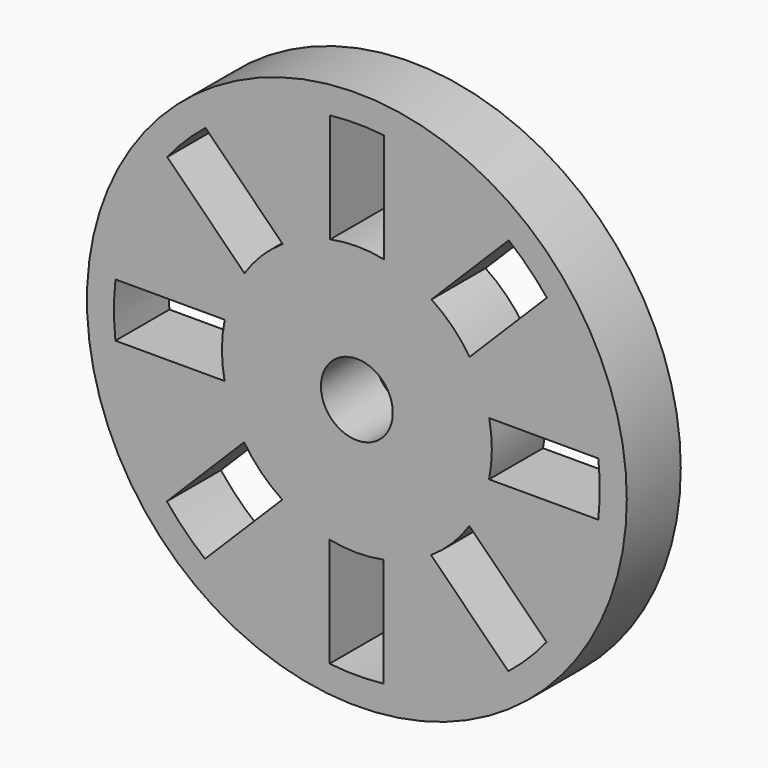
from build123d import *

# Parameters (mm, degrees)
F0_R     = 25.4
F1_DEPTH = 6.35
F3_D     = 6.7564
F3_DEPTH = 11.9126
F3_TIP   = 2.0298273432


with BuildPart() as f1:
    # F0 (on Front) → F1 (new body)
    with BuildSketch(Plane.XZ):
        Circle(F0_R)
        with BuildLine():
            ThreePointArc((2.5134499214, -22.7214033346), (-0.0267137561, -22.8599843914), (-2.56654661, -22.7154669443))
            Line((-2.56654661, -22.7154669443), (-2.56654661, -12.4379595794))
            ThreePointArc((-2.56654661, -12.4379595794), (-0.0270957922, -12.6999710952), (2.5134499214, -12.4487979135))
            Line((2.5134499214, -12.4487979135), (2.5134499214, -22.7214033346))
        make_face(mode=Mode.SUBTRACT)
        with BuildLine():
            ThreePointArc((-14.2891808923, -17.8437358596), (-16.1833394591, -16.1455605029), (-17.8770832263, -14.247438202))
            Line((-17.8770832263, -14.247438202), (-10.6097880749, -6.9801430506))
            ThreePointArc((-10.6097880749, -6.9801430506), (-8.9993953007, -8.9610760639), (-7.0253519387, -10.5799069059))
            Line((-7.0253519387, -10.5799069059), (-14.2891808923, -17.8437358596))
        make_face(mode=Mode.SUBTRACT)
        with BuildLine():
            ThreePointArc((17.8437358596, -14.2891808923), (16.1455605029, -16.1833394591), (14.247438202, -17.8770832263))
            Line((14.247438202, -17.8770832263), (6.9801430506, -10.6097880749))
            ThreePointArc((6.9801430506, -10.6097880749), (8.9610760639, -8.9993953007), (10.5799069059, -7.0253519387))
            Line((10.5799069059, -7.0253519387), (17.8437358596, -14.2891808923))
        make_face(mode=Mode.SUBTRACT)
        with BuildLine():
            ThreePointArc((22.7214033346, 2.5134499214), (22.8599843914, -0.0267137561), (22.7154669443, -2.56654661))
            Line((22.7154669443, -2.56654661), (12.4379595794, -2.56654661))
            ThreePointArc((12.4379595794, -2.56654661), (12.6999710952, -0.0270957922), (12.4487979135, 2.5134499214))
            Line((12.4487979135, 2.5134499214), (22.7214033346, 2.5134499214))
        make_face(mode=Mode.SUBTRACT)
        with BuildLine():
            ThreePointArc((-22.7214033346, -2.5134499214), (-22.8599843914, 0.0267137561), (-22.7154669443, 2.56654661))
            Line((-22.7154669443, 2.56654661), (-12.4379595794, 2.56654661))
            ThreePointArc((-12.4379595794, 2.56654661), (-12.6999710952, 0.0270957922), (-12.4487979135, -2.5134499214))
            Line((-12.4487979135, -2.5134499214), (-22.7214033346, -2.5134499214))
        make_face(mode=Mode.SUBTRACT)
        with BuildLine():
            ThreePointArc((-17.8437358596, 14.2891808923), (-16.1455605029, 16.1833394591), (-14.247438202, 17.8770832263))
            Line((-14.247438202, 17.8770832263), (-6.9801430506, 10.6097880749))
            ThreePointArc((-6.9801430506, 10.6097880749), (-8.9610760639, 8.9993953007), (-10.5799069059, 7.0253519387))
            Line((-10.5799069059, 7.0253519387), (-17.8437358596, 14.2891808923))
        make_face(mode=Mode.SUBTRACT)
        with BuildLine():
            ThreePointArc((14.2891808923, 17.8437358596), (16.1833394591, 16.1455605029), (17.8770832263, 14.247438202))
            Line((17.8770832263, 14.247438202), (10.6097880749, 6.9801430506))
            ThreePointArc((10.6097880749, 6.9801430506), (8.9993953007, 8.9610760639), (7.0253519387, 10.5799069059))
            Line((7.0253519387, 10.5799069059), (14.2891808923, 17.8437358596))
        make_face(mode=Mode.SUBTRACT)
        with BuildLine():
            Line((-2.5134499214, 12.4487979135), (-2.5134499214, 22.7214033346))
            ThreePointArc((-2.5134499214, 22.7214033346), (0.0267137561, 22.8599843914), (2.56654661, 22.7154669443))
            Line((2.56654661, 22.7154669443), (2.56654661, 12.4379595794))
            ThreePointArc((2.56654661, 12.4379595794), (0.0270957922, 12.6999710952), (-2.5134499214, 12.4487979135))
        make_face(mode=Mode.SUBTRACT)
    extrude(amount=F1_DEPTH)

    # F3
    with Locations(Plane.XZ.offset(6.35)):
        with Locations((0, 0)):
            Hole(F3_D / 2, depth=F3_DEPTH)
            with Locations((0, 0, -(F3_DEPTH + F3_TIP / 2))):  # 118° drill point
                Cone(0, F3_D / 2, F3_TIP, mode=Mode.SUBTRACT)


solid = f1.part
